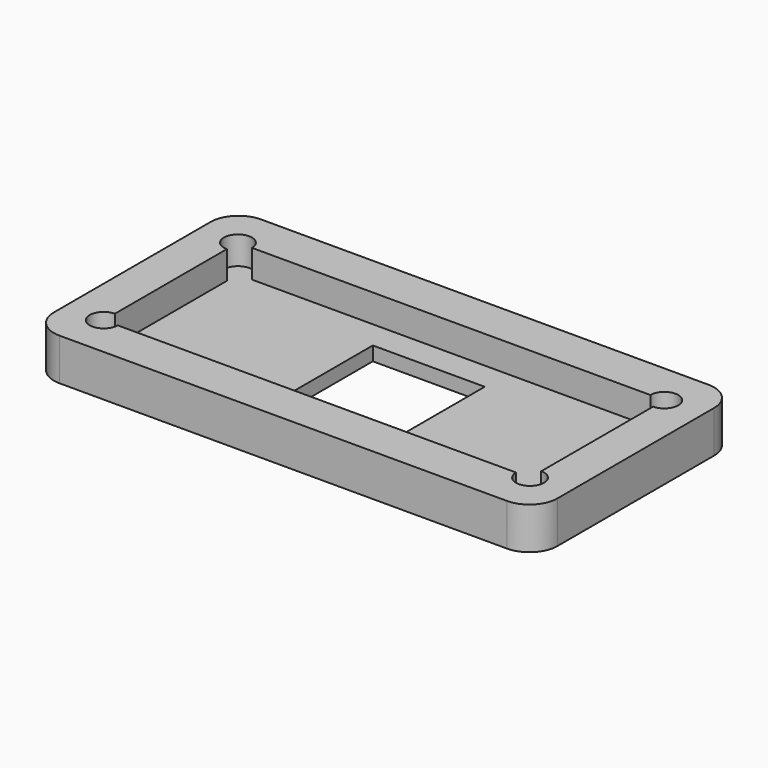
from build123d import *

# Parameters (mm, degrees)
F0_W     = 36
F0_H     = 18
F1_DEPTH = 3
F2_W     = 30.48
F2_H     = 12
F3_DEPTH = 2
F4_W     = 8
F4_H     = 8
F5_DEPTH = 3.001
F6_R     = 2
F7_R     = 1
F8_DEPTH = 2


with BuildPart() as f1:
    # F0 (on Top) → F1 (new body)
    with BuildSketch(Plane.XY):
        Rectangle(F0_W, F0_H)
    extrude(amount=F1_DEPTH)

    # F2 (on face) → F3 (cut)
    with BuildSketch(Plane.XY.offset(3)):
        Rectangle(F2_W, F2_H)
    extrude(amount=-F3_DEPTH, mode=Mode.SUBTRACT)

    # F4 (on face) → F5 (cut, through all)
    with BuildSketch(Plane(origin=(0, 0, 0), x_dir=(1, 0, 0), z_dir=(0, 0, -1))):
        Rectangle(F4_W, F4_H)
    extrude(amount=-F5_DEPTH, mode=Mode.SUBTRACT)

    # F6
    f6_edges = [f1.edges().sort_by_distance(p)[0] for p in [
        (-18, -9, 1.5),
        (-18, 9, 1.5),
        (18, -9, 1.5),
        (18, 9, 1.5),
    ]]
    fillet(f6_edges, radius=F6_R)

    # F7 (on face) → F8 (cut)
    with BuildSketch(Plane.XY.offset(3)):
        with Locations((-15.24, 6)):
            Circle(F7_R)
        with Locations((-15.24, -6)):
            Circle(F7_R)
        with Locations((15.24, 6)):
            Circle(F7_R)
        with Locations((15.24, -6)):
            Circle(F7_R)
    extrude(amount=-F8_DEPTH, mode=Mode.SUBTRACT)


solid = f1.part
